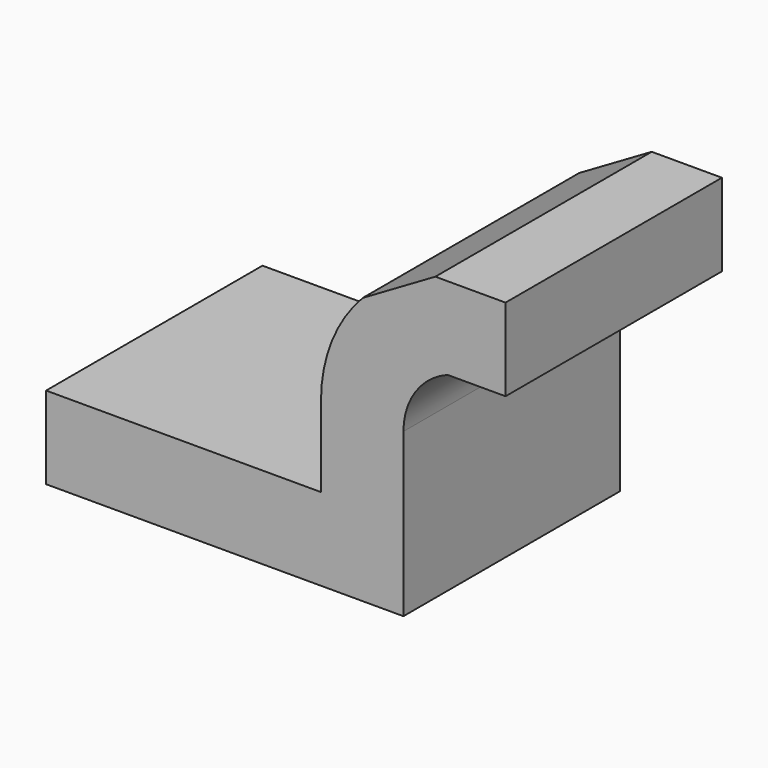
from build123d import *

# Parameters (mm, degrees)
F1_DEPTH = 31.242


with BuildPart() as f1:
    # F0 (on Front) → F1 (new body, symmetric)
    with BuildSketch(Plane.XZ):
        Polygon((-41.275, -9.525), (41.275, -9.525), (41.275, 9.525), (22.225, 9.525), (-41.275, 9.525), align=None)
        with BuildLine():
            Line((22.225, 9.525), (41.275, 9.525))
            Line((41.275, 9.525), (41.275, 28.050991))
            ThreePointArc((41.275, 28.050991), (44.06986, 37.046855), (51.470347, 42.8752))
            Line((51.470347, 42.8752), (64.860691, 42.8752))
            Line((64.860691, 42.8752), (64.860691, 61.9252))
            Line((64.860691, 61.9252), (48.647435, 61.9252))
            add(Edge.make_bspline(
                [(31.870654, 52.148922), (37.462914, 55.407681), (43.055175, 58.666441), (48.647435, 61.9252)],
                knots=[84.65864, 84.65864, 84.65864, 84.65864, 104.076055, 104.076055, 104.076055, 104.076055], degree=3))
            ThreePointArc((31.870654, 52.148922), (24.72596, 41.029328), (22.225, 28.050991))
            Line((22.225, 28.050991), (22.225, 9.525))
        make_face()
    extrude(amount=F1_DEPTH, both=True)


solid = f1.part
